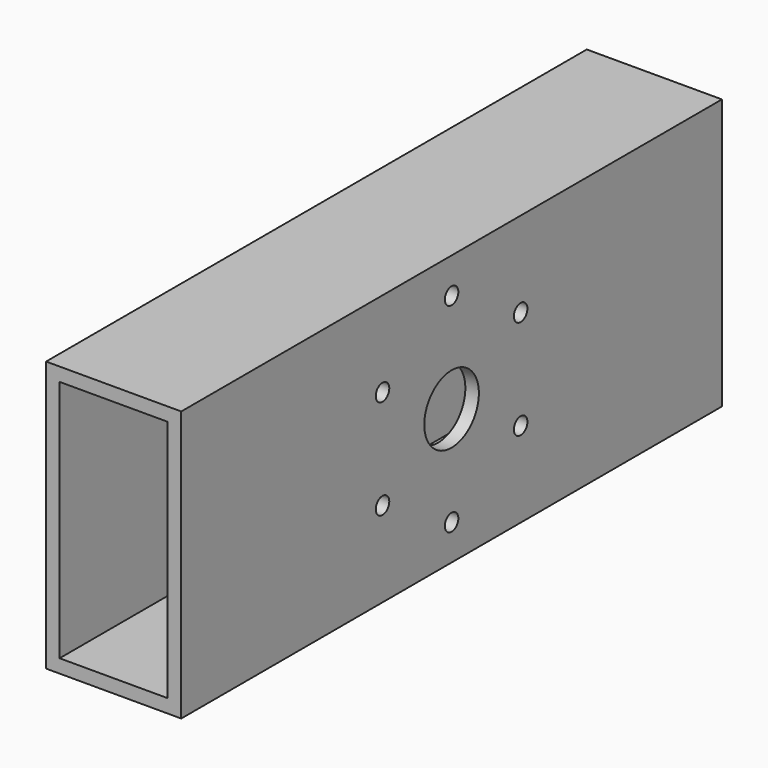
from build123d import *

# Parameters (mm, degrees)
F0_W     = 40
F0_H     = 80
F0_W_2   = 32
F0_H_2   = 72
F1_DEPTH = 200
F2_R     = 10.1
F3_DEPTH = 40.001
F4_R     = 2.5
F5_DEPTH = 40.001


with BuildPart() as f1:
    # F0 (on Front) → F1 (new body)
    with BuildSketch(Plane.XZ):
        Rectangle(F0_W, F0_H)
        Rectangle(F0_W_2, F0_H_2, mode=Mode.SUBTRACT)
    extrude(amount=F1_DEPTH)

    # F2 (on face) → F3 (cut, through all)
    with BuildSketch(Plane.YZ.offset(20)):
        with Locations((-100, 0)):
            Circle(F2_R)
    extrude(amount=-F3_DEPTH, mode=Mode.SUBTRACT)

    # F4 (on face) → F5 (cut, through all)
    with BuildSketch(Plane.YZ.offset(20)):
        with Locations((-125.547749, -14.75)):
            Circle(F4_R)
        with Locations((-125.547749, 14.75)):
            Circle(F4_R)
        with Locations((-100, 29.5)):
            Circle(F4_R)
        with Locations((-74.452251, 14.75)):
            Circle(F4_R)
        with Locations((-74.452251, -14.75)):
            Circle(F4_R)
        with Locations((-100, -29.5)):
            Circle(F4_R)
    extrude(amount=-F5_DEPTH, mode=Mode.SUBTRACT)


solid = f1.part
